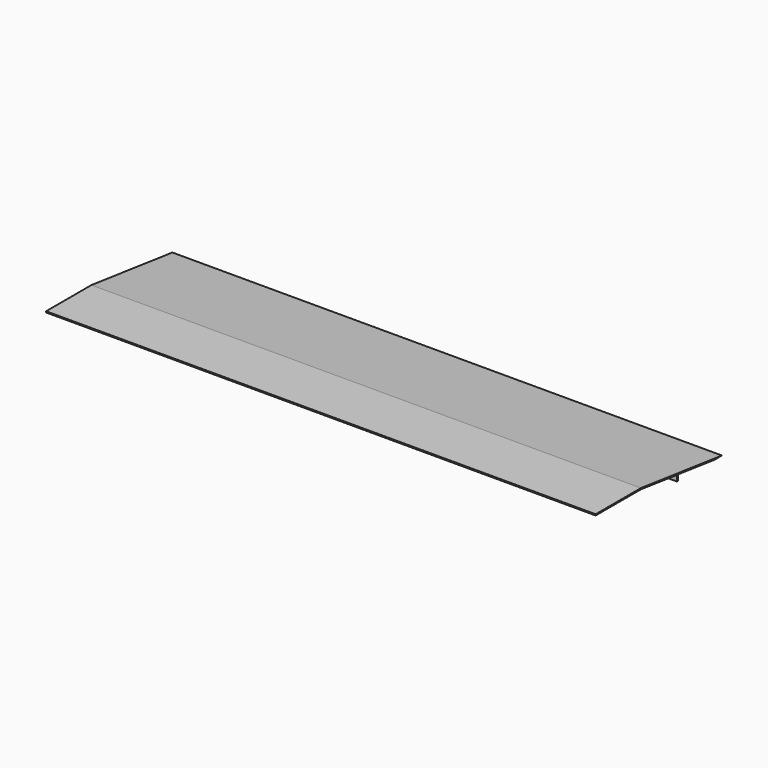
from build123d import *

# Parameters (mm, degrees)
F1_DEPTH = 970
F2_W     = 35
F2_H     = 30
F3_DEPTH = 2.3
F4_W     = 2.4
F4_H     = 1
F5_DEPTH = 30.001
F7_DEPTH = 970


with BuildPart() as f1:
    # F0 (on Right) → F1 (new body)
    with BuildSketch(Plane.YZ):
        Polygon((0, 20), (0, 0), (2.3, 0), (2.3, 17.7), (27.7, 17.7), (27.7, 0), (30, 0), (30, 20), align=None)
    extrude(amount=F1_DEPTH)

    # F2 (on face) → F3 (cut)
    with BuildSketch(Plane.XY.offset(20)):
        with Locations((17.5, 15)):
            Rectangle(F2_W, F2_H)
        with Locations((952.5, 15)):
            Rectangle(F2_W, F2_H)
    extrude(amount=-F3_DEPTH, mode=Mode.SUBTRACT)

    # F4 (on face) → F5 (cut, through all)
    with BuildSketch(Plane.XZ):
        with Locations((33.8, 0.5)):
            Rectangle(F4_W, F4_H)
        with Locations((6.2, 0.5)):
            Rectangle(F4_W, F4_H)
        with Locations((936.2, 0.5)):
            Rectangle(F4_W, F4_H)
        with Locations((963.8, 0.5)):
            Rectangle(F4_W, F4_H)
    extrude(amount=-F5_DEPTH, mode=Mode.SUBTRACT)


with BuildPart() as f7:
    # F6 (on Right) → F7 (new body)
    with BuildSketch(Plane.YZ):
        Polygon((-5, 20), (95, 20), (174.204771, 10.246291), (176.204771, 10), (257.409543, 0), (273.650497, 0), (95, 22), (-5, 22), align=None)
        Polygon((176.204771, 10), (174.204771, 10.246291), (174.204771, 0), (176.204771, 0), align=None)
    extrude(amount=F7_DEPTH)


solid = f7.part
